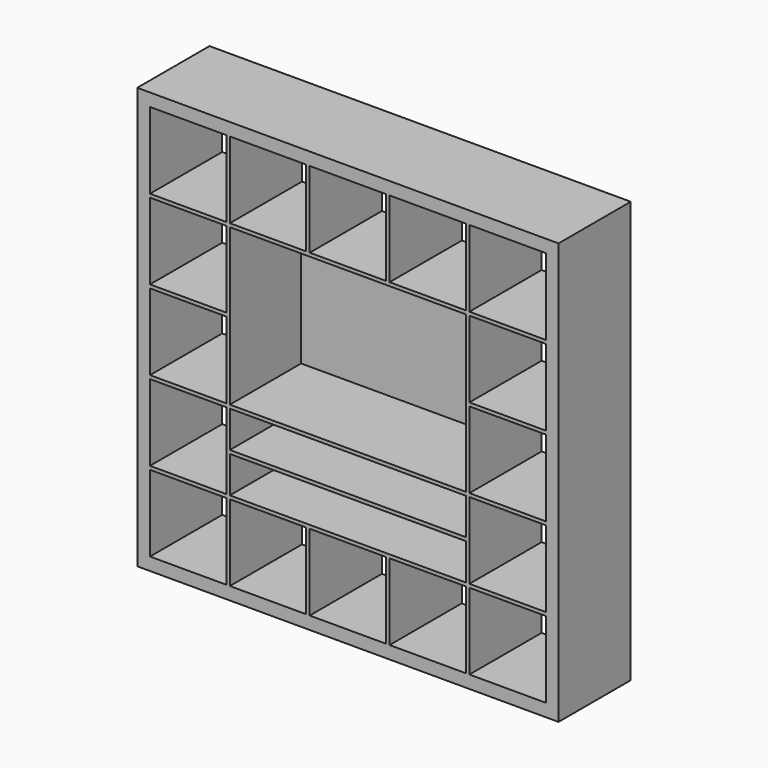
from build123d import *

# Parameters (mm, degrees)
F0_W     = 1820
F0_H     = 1820
F1_DEPTH = 390
F2_W     = 330
F2_H     = 330
F2_H_2   = 157.5
F2_W_2   = 15
F3_DEPTH = 740.61349
F4_DEPTH = 5


with BuildPart() as f1:
    # F0 (on Front) → F1 (new body)
    with BuildSketch(Plane.XZ):
        with Locations((910, 910)):
            Rectangle(F0_W, F0_H)
    extrude(amount=F1_DEPTH)

    # F2 (on Front) → F3 (cut)
    with BuildSketch(Plane.XZ):
        with Locations((220, 220)):
            Rectangle(F2_W, F2_H)
        with Locations((220, 565)):
            Rectangle(F2_W, F2_H)
        with Locations((220, 910)):
            Rectangle(F2_W, F2_H)
        with Locations((220, 1255)):
            Rectangle(F2_W, F2_H)
        with Locations((220, 1600)):
            Rectangle(F2_W, F2_H)
        with Locations((565, 220)):
            Rectangle(F2_W, F2_H)
        with Locations((565, 1600)):
            Rectangle(F2_W, F2_H)
        with Locations((910, 220)):
            Rectangle(F2_W, F2_H)
        with Locations((910, 1600)):
            Rectangle(F2_W, F2_H)
        with Locations((1255, 220)):
            Rectangle(F2_W, F2_H)
        with Locations((1255, 1600)):
            Rectangle(F2_W, F2_H)
        with Locations((1600, 220)):
            Rectangle(F2_W, F2_H)
        with Locations((1600, 565)):
            Rectangle(F2_W, F2_H)
        with Locations((1600, 910)):
            Rectangle(F2_W, F2_H)
        with Locations((1600, 1255)):
            Rectangle(F2_W, F2_H)
        with Locations((1600, 1600)):
            Rectangle(F2_W, F2_H)
        with Locations((565, 910)):
            Rectangle(F2_W, F2_H)
        with Locations((565, 1255)):
            Rectangle(F2_W, F2_H)
        with Locations((910, 910)):
            Rectangle(F2_W, F2_H)
        with Locations((910, 1255)):
            Rectangle(F2_W, F2_H)
        with Locations((1255, 910)):
            Rectangle(F2_W, F2_H)
        with Locations((1255, 1255)):
            Rectangle(F2_W, F2_H)
        with Locations((565, 651.25)):
            Rectangle(F2_W, F2_H_2)
        with Locations((565, 478.75)):
            Rectangle(F2_W, F2_H_2)
        with Locations((1255, 651.25)):
            Rectangle(F2_W, F2_H_2)
        with Locations((1255, 478.75)):
            Rectangle(F2_W, F2_H_2)
        with Locations((737.5, 651.25)):
            Rectangle(F2_W_2, F2_H_2)
        with Locations((737.5, 478.75)):
            Rectangle(F2_W_2, F2_H_2)
        with Locations((910, 651.25)):
            Rectangle(F2_W, F2_H_2)
        with Locations((1082.5, 651.25)):
            Rectangle(F2_W_2, F2_H_2)
        with Locations((910, 478.75)):
            Rectangle(F2_W, F2_H_2)
        with Locations((1082.5, 478.75)):
            Rectangle(F2_W_2, F2_H_2)
        Polygon((400, 1075), (730, 1075), (730, 745), (745, 745), (745, 1075), (1075, 1075), (1075, 745), (1090, 745), (1090, 1075), (1420, 1075), (1420, 1090), (1090, 1090), (1090, 1420), (1075, 1420), (1075, 1090), (745, 1090), (745, 1420), (730, 1420), (730, 1090), (400, 1090), align=None)
    extrude(amount=F3_DEPTH, mode=Mode.SUBTRACT)

    # F2 (on Front) → F4 (join)
    with BuildSketch(Plane.XZ):
        with Locations((565, 478.75)):
            Rectangle(F2_W, F2_H_2)
        with Locations((565, 651.25)):
            Rectangle(F2_W, F2_H_2)
        with Locations((910, 651.25)):
            Rectangle(F2_W, F2_H_2)
        with Locations((910, 478.75)):
            Rectangle(F2_W, F2_H_2)
        with Locations((1255, 478.75)):
            Rectangle(F2_W, F2_H_2)
        with Locations((1255, 651.25)):
            Rectangle(F2_W, F2_H_2)
        with Locations((565, 910)):
            Rectangle(F2_W, F2_H)
        with Locations((1255, 910)):
            Rectangle(F2_W, F2_H)
        with Locations((1255, 1255)):
            Rectangle(F2_W, F2_H)
        with Locations((910, 1255)):
            Rectangle(F2_W, F2_H)
        with Locations((565, 1255)):
            Rectangle(F2_W, F2_H)
        with Locations((910, 910)):
            Rectangle(F2_W, F2_H)
        Polygon((400, 1075), (730, 1075), (730, 745), (745, 745), (745, 1075), (1075, 1075), (1075, 745), (1090, 745), (1090, 1075), (1420, 1075), (1420, 1090), (1090, 1090), (1090, 1420), (1075, 1420), (1075, 1090), (745, 1090), (745, 1420), (730, 1420), (730, 1090), (400, 1090), align=None)
        with Locations((737.5, 651.25)):
            Rectangle(F2_W_2, F2_H_2)
        with Locations((737.5, 478.75)):
            Rectangle(F2_W_2, F2_H_2)
        with Locations((1082.5, 478.75)):
            Rectangle(F2_W_2, F2_H_2)
        with Locations((1082.5, 651.25)):
            Rectangle(F2_W_2, F2_H_2)
    extrude(amount=F4_DEPTH)


solid = f1.part
